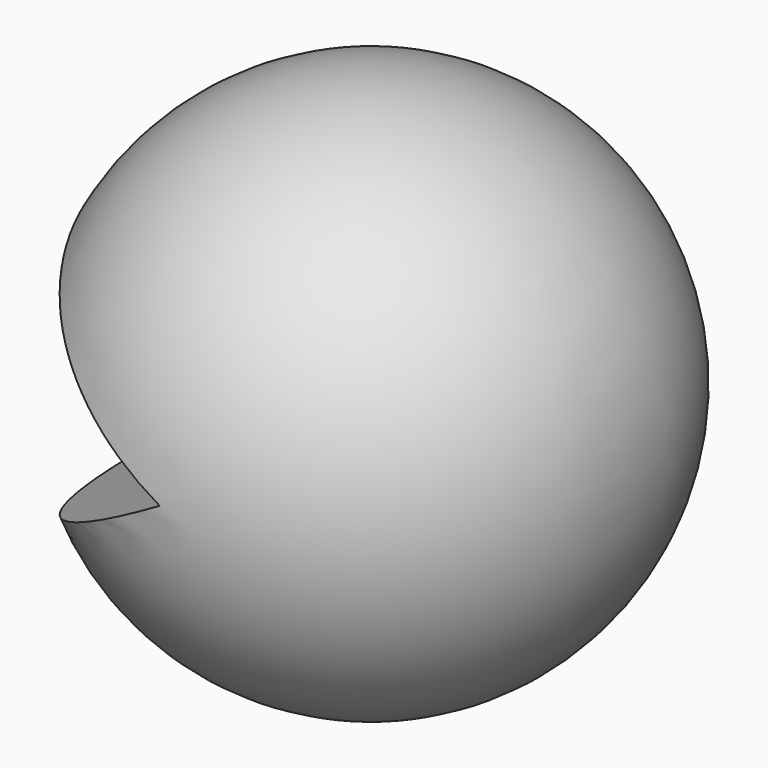
from build123d import *

# Parameters (mm, degrees)
F3_DEPTH = 31.75


with BuildPart() as f1:
    # F0 (on Front) → F1 (revolve)
    with BuildSketch(Plane.XZ):
        with BuildLine():
            Line((0, 0), (0, -29.8252274394))
            ThreePointArc((0, -29.8252274394), (29.8252274394, 0), (0, 29.8252274394))
            Line((0, 29.8252274394), (0, 0))
        make_face()
    revolve(axis=Axis((0, 0, -3.7715565413), (0, 0, -1)))

    # F2 (on Front) → F3 (cut, symmetric)
    with BuildSketch(Plane.XZ):
        Polygon((-32.5038938461, -18.7661318617), (0, 0), (-32.0565249689, 18.5078433201), align=None)
    extrude(amount=F3_DEPTH, both=True, mode=Mode.SUBTRACT)


solid = f1.part
